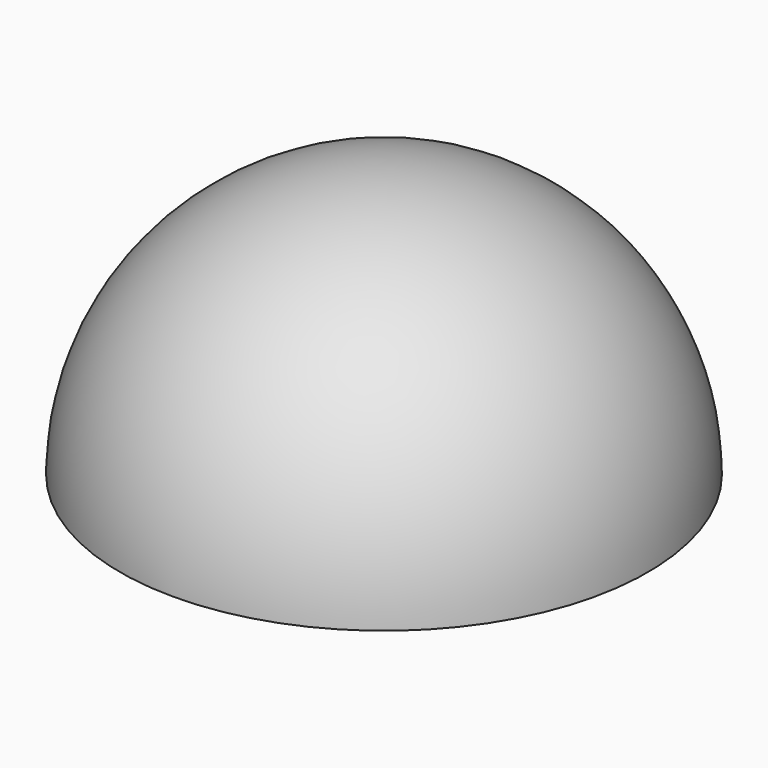
from build123d import *

# Parameters (mm, degrees)
F1_ANGLE = 180


with BuildPart() as f1:
    # F0 (on Top) → F1 (revolve)
    with BuildSketch(Plane.XY):
        with BuildLine():
            Line((0, 31.864938), (0, 37.595828))
            ThreePointArc((0, 37.595828), (-37.595828, 0), (0, -37.595828))
            Line((0, -37.595828), (0, -31.864938))
            ThreePointArc((0, -31.864938), (-31.864938, 0), (0, 31.864938))
        make_face()
    revolve(axis=Axis((0, 0, 0), (0, 1, 0)), revolution_arc=F1_ANGLE)


solid = f1.part
